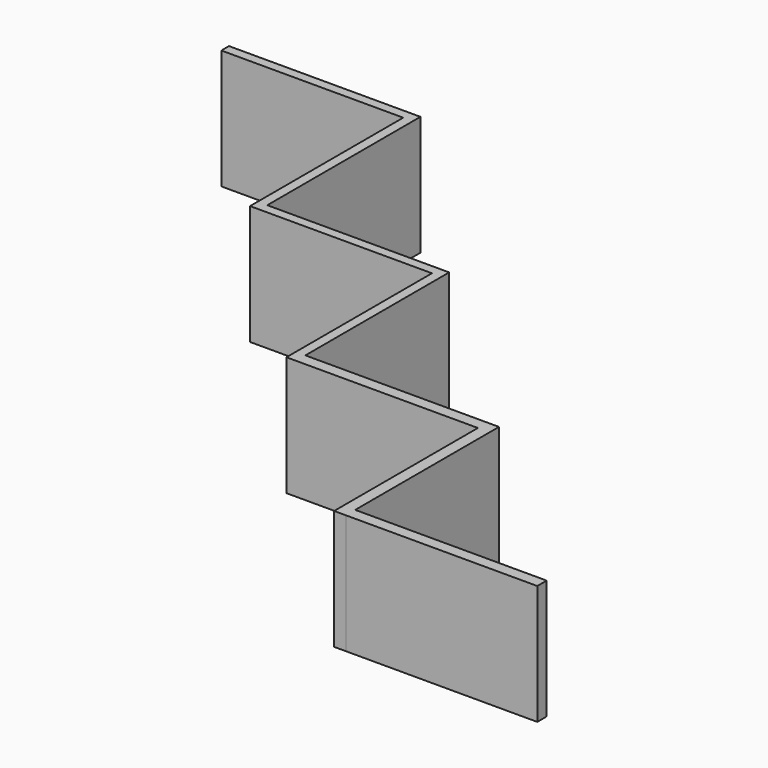
from build123d import *

# Parameters (mm, degrees)
F0_W     = 2
F0_H     = 38
F0_H_2   = 2
F0_W_2   = 36
F0_H_3   = 35.549866
F0_H_4   = 2.450134
F0_W_3   = 38
F0_W_4   = 40
F0_H_5   = 2.450133
F1_DEPTH = 25


with BuildPart() as f1:
    # F0 (on Top) → F1 (new body)
    with BuildSketch(Plane.XY):
        Polygon((-24.788584, -29.052996), (-24.788584, -31.052996), (13.211416, -31.052996), (15.211416, -31.052996), (15.211416, -29.052996), align=None)
        with Locations((14.211416, -50.052996)):
            Rectangle(F0_W, F0_H)
        with Locations((14.211416, -70.052996)):
            Rectangle(F0_W, F0_H_2)
        with Locations((33.211416, -70.052996)):
            Rectangle(F0_W_2, F0_H_2)
        with Locations((52.211416, -70.052996)):
            Rectangle(F0_W, F0_H_2)
        with Locations((52.211416, -88.827929)):
            Rectangle(F0_W, F0_H_3)
        with Locations((52.211416, -107.827929)):
            Rectangle(F0_W, F0_H_4)
        with Locations((72.211416, -107.827929)):
            Rectangle(F0_W_3, F0_H_4)
        Polygon((93.66155, -106.602862), (91.211416, -106.602862), (91.211416, -109.052996), (91.211416, -146.602862), (93.66155, -146.602862), (93.66155, -144.152729), align=None)
        with Locations((113.66155, -145.377795)):
            Rectangle(F0_W_4, F0_H_5)
    extrude(amount=F1_DEPTH)


solid = f1.part
